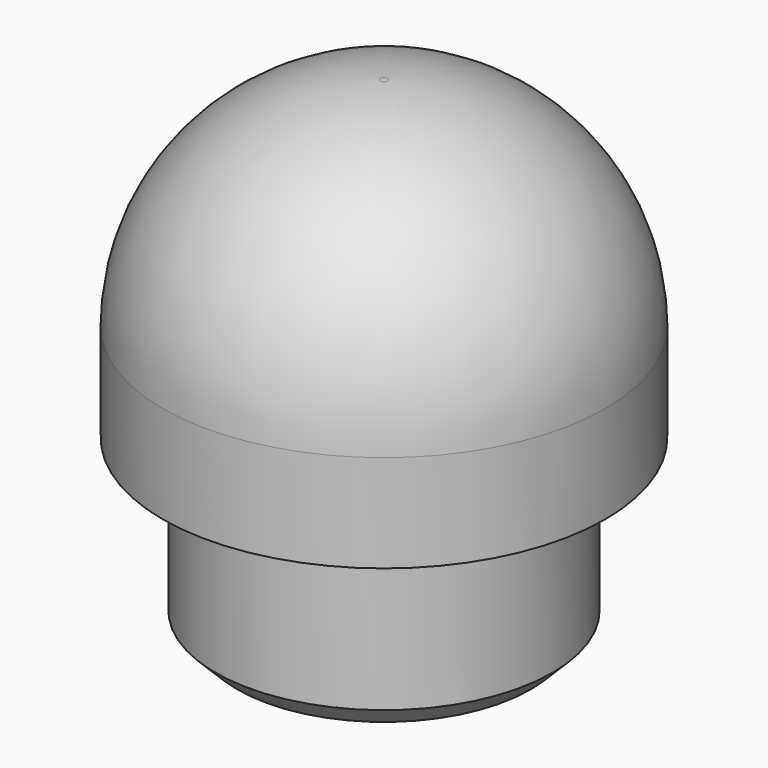
from build123d import *

# Parameters (mm, degrees)
F0_R     = 5.085
F1_DEPTH = 7.24
F2_R     = 5
F3_R     = 3.87
F4_DEPTH = 4
F5_SIZE  = 0.5


with BuildPart() as f1:
    # F0 (on Top) → F1 (new body)
    with BuildSketch(Plane.XY):
        Circle(F0_R)
    extrude(amount=F1_DEPTH)

    # F2
    f2_edges = [f1.edges().sort_by_distance(p)[0] for p in [
        (-5.085, 0, 7.24),
    ]]
    fillet(f2_edges, radius=F2_R)

    # F3 (on face) → F4 (join)
    with BuildSketch(Plane(origin=(0, 0, 0), x_dir=(1, 0, 0), z_dir=(0, 0, -1))):
        Circle(F3_R)
    extrude(amount=F4_DEPTH)

    # F5
    f5_edges = [f1.edges().sort_by_distance(p)[0] for p in [
        (-3.87, 0, -4),
    ]]
    chamfer(f5_edges, length=F5_SIZE)


solid = f1.part
